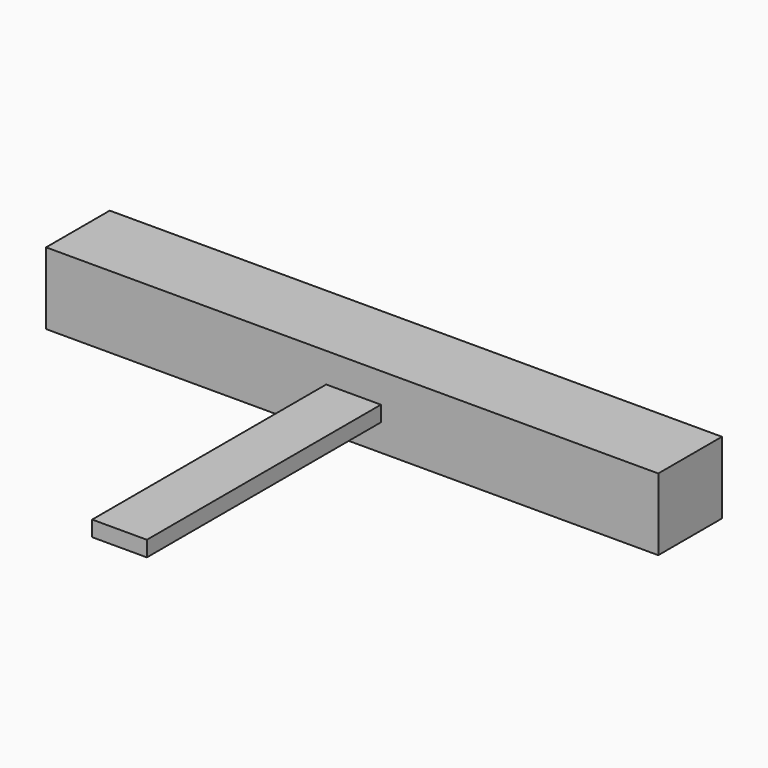
from build123d import *

# Parameters (mm, degrees)
F0_W     = 125.075299
F0_H     = 14.703508
F1_DEPTH = 16.256
F2_W     = 59.765493
F2_H     = 3.175618
F3_DEPTH = 11.176


with BuildPart() as f1:
    # F0 (on Front) → F1 (new body)
    with BuildSketch(Plane.XZ):
        with Locations((5.060299, 12.50753)):
            Rectangle(F0_W, F0_H)
    extrude(amount=F1_DEPTH)


with BuildPart() as f3:
    # F2 (on Right) → F3 (new body)
    with BuildSketch(Plane.YZ):
        with Locations((-46.447527, 12.420782)):
            Rectangle(F2_W, F2_H)
    extrude(amount=F3_DEPTH)


solid = Compound([f1.part, f3.part])
